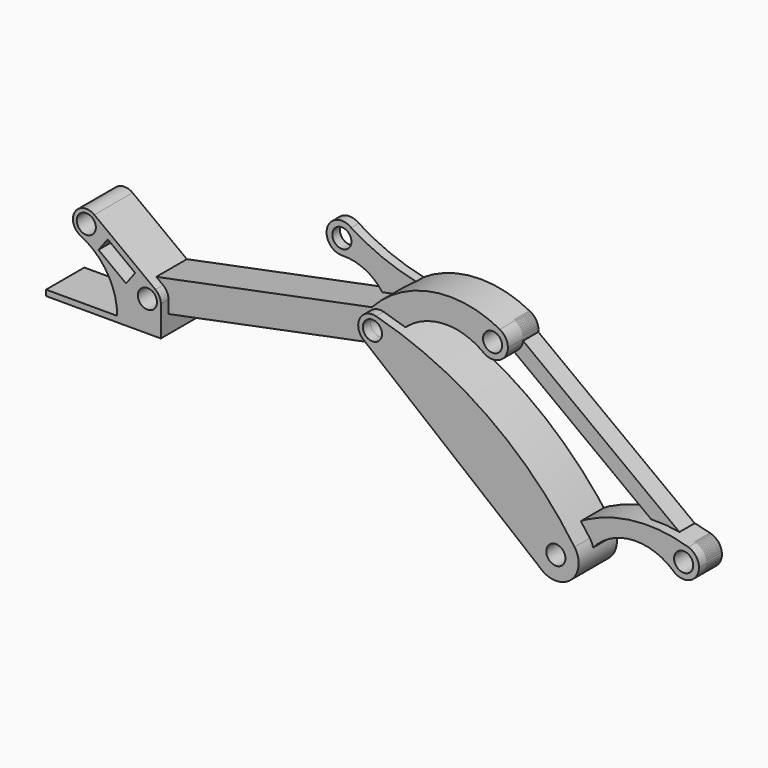
from build123d import *

# Parameters (mm, degrees)
F0_R      = 5
F4_DEPTH  = 25
F1_R      = 5
F5_DEPTH  = 20
F2_R      = 5
F6_DEPTH  = 10
F3_R      = 5
F7_DEPTH  = 15
F8_R      = 5
F9_DEPTH  = 5
F10_R     = 5
F11_DEPTH = 25


with BuildPart() as f4:
    # F0 (on Front) → F4 (new body)
    with BuildSketch(Plane.XZ):
        with BuildLine():
            ThreePointArc((12.7699903188, 6.3005770724), (27.8784727318, 7.8839687241), (29.1268600919, 23.0238134704))
            ThreePointArc((29.1268600919, 23.0238134704), (-16.3308618215, 68.473750537), (-74.6553024585, 95.4989403661))
            ThreePointArc((-74.6553024585, 95.4989403661), (-83.0966974862, 91.8431011822), (-81.5248735554, 82.779344804))
            Line((-81.5248735554, 82.779344804), (-80.9391446442, 82.3042836658))
            Line((-80.9391446442, 82.3042836658), (11.0379283983, 7.7053827625))
            Line((11.0379283983, 7.7053827625), (12.7699903188, 6.3005770724))
        make_face()
        with Locations((19.3689915792, 16.2070272359)):
            Circle(F0_R, mode=Mode.SUBTRACT)
        with Locations((-76.5540295824, 88.3095515414)):
            Circle(F0_R, mode=Mode.SUBTRACT)
        with BuildLine():
            ThreePointArc((11.0379283983, 7.7053827625), (11.8709867905, 6.9623262313), (12.7699903188, 6.3005770724))
            Line((12.7699903188, 6.3005770724), (11.0379283983, 7.7053827625))
        make_face()
        with BuildLine():
            Line((-80.9391446442, 82.3042836658), (-81.5248735554, 82.779344804))
            ThreePointArc((-81.5248735554, 82.779344804), (-81.2380356815, 82.5343837321), (-80.9391446442, 82.3042836658))
        make_face()
    extrude(amount=F4_DEPTH)


with BuildPart() as f5:
    # F1 (on Front) → F5 (new body)
    with BuildSketch(Plane.XZ):
        with BuildLine():
            ThreePointArc((-192.6220917004, 56.8102665311), (-188.0098035587, 59.5845822333), (-186.1991767139, 64.6532763399))
            ThreePointArc((-186.1991767139, 64.6532763399), (-189.1304826073, 70.842649495), (-195.7762617273, 72.4962861486))
            ThreePointArc((-195.7762617273, 72.4962861486), (-202.0421865226, 63.0761913264), (-192.6220917004, 56.8102665311))
        make_face()
        with Locations((-194.1991767139, 64.6532763399)):
            Circle(F1_R, mode=Mode.SUBTRACT)
        with BuildLine():
            ThreePointArc((-195.7762617273, 72.4962861486), (-189.1304826073, 70.842649495), (-186.1991767139, 64.6532763399))
            ThreePointArc((-186.1991767139, 64.6532763399), (-188.0098035587, 59.5845822333), (-192.6220917004, 56.8102665311))
            Line((-192.6220917004, 56.8102665311), (-74.976944569, 80.4665417327))
            ThreePointArc((-74.976944569, 80.4665417327), (-83.3984734066, 84.1678624249), (-82.7701585395, 93.3453971297))
            ThreePointArc((-82.7701585395, 93.3453971297), (-81.8164965769, 94.4905291082), (-80.8321852652, 95.6094257203))
            Line((-80.8321852652, 95.6094257203), (-195.7762617273, 72.4962861486))
        make_face()
        with BuildLine():
            ThreePointArc((-13.9450014887, 107.1848702884), (-49.3852791074, 112.9347338495), (-80.8321852652, 95.6094257203))
            Line((-80.8321852652, 95.6094257203), (-78.1311145958, 96.1525613502))
            ThreePointArc((-78.1311145958, 96.1525613502), (-71.4853354758, 94.4989246966), (-68.5540295824, 88.3095515414))
            ThreePointArc((-68.5540295824, 88.3095515414), (-68.8281533807, 86.2332960377), (-69.6317388116, 84.2993282953))
            ThreePointArc((-69.6317388116, 84.2993282953), (-48.2326022775, 99.6436062673), (-22.5656240685, 93.7634582673))
            ThreePointArc((-22.5656240685, 93.7634582673), (-24.4625778449, 104.4611135874), (-13.9450014887, 107.1848702884))
        make_face()
        with BuildLine():
            Line((-78.1311145958, 96.1525613502), (-80.8321852652, 95.6094257203))
            ThreePointArc((-80.8321852652, 95.6094257203), (-81.8164965769, 94.4905291082), (-82.7701585395, 93.3453971297))
            ThreePointArc((-82.7701585395, 93.3453971297), (-80.6957186989, 95.1539953656), (-78.1311145958, 96.1525613502))
        make_face()
        with BuildLine():
            ThreePointArc((-82.7701585395, 93.3453971297), (-83.3984734066, 84.1678624249), (-74.976944569, 80.4665417327))
            ThreePointArc((-74.976944569, 80.4665417327), (-71.8922262415, 81.8081986353), (-69.6317388116, 84.2993282953))
            ThreePointArc((-69.6317388116, 84.2993282953), (-68.8281533807, 86.2332960377), (-68.5540295824, 88.3095515414))
            ThreePointArc((-68.5540295824, 88.3095515414), (-71.4853354758, 94.4989246966), (-78.1311145958, 96.1525613502))
            ThreePointArc((-78.1311145958, 96.1525613502), (-80.6957186989, 95.1539953656), (-82.7701585395, 93.3453971297))
        make_face()
        with Locations((-76.5540295824, 88.3095515414)):
            Circle(F1_R, mode=Mode.SUBTRACT)
        with BuildLine():
            ThreePointArc((-9.7314560167, 100.1376891422), (-10.8651747734, 104.2430736416), (-13.9450014887, 107.1848702884))
            ThreePointArc((-13.9450014887, 107.1848702884), (-24.4625778449, 104.4611135874), (-22.5656240685, 93.7634582673))
            ThreePointArc((-22.5656240685, 93.7634582673), (-14.1728990349, 92.9727277182), (-9.7314560167, 100.1376891422))
        make_face()
        with Locations((-17.7314560167, 100.1376891422)):
            Circle(F1_R, mode=Mode.SUBTRACT)
    extrude(amount=F5_DEPTH)


with BuildPart() as f6:
    # F2 (on Front) → F6 (new body)
    with BuildSketch(Plane.XZ):
        with BuildLine():
            ThreePointArc((-14.5967552846, 92.7774139218), (-11.3365879392, 95.3308541885), (-9.7899203309, 99.1722819992))
            ThreePointArc((-9.7899203309, 99.1722819992), (-9.7460854715, 99.6541012423), (-9.7314560167, 100.1376891422))
            ThreePointArc((-9.7314560167, 100.1376891422), (-24.4051958174, 104.5491738211), (-14.5967552846, 92.7774139218))
        make_face()
        with Locations((-17.7314560167, 100.1376891422)):
            Circle(F2_R, mode=Mode.SUBTRACT)
        with BuildLine():
            ThreePointArc((70.2500294592, 29.0005719797), (77.7079772451, 20.0497942916), (86.191565145, 28.0351648367))
            ThreePointArc((86.191565145, 28.0351648367), (82.6030498238, 34.7089046375), (75.0568644129, 35.3954400571))
            ThreePointArc((75.0568644129, 35.3954400571), (71.7966970675, 32.8419997904), (70.2500294592, 29.0005719797))
        make_face()
        with Locations((78.191565145, 28.0351648367)):
            Circle(F2_R, mode=Mode.SUBTRACT)
        with BuildLine():
            ThreePointArc((70.2500294592, 29.0005719797), (71.7966970675, 32.8419997904), (75.0568644129, 35.3954400571))
            Line((75.0568644129, 35.3954400571), (-9.7899203309, 99.1722819992))
            ThreePointArc((-9.7899203309, 99.1722819992), (-11.3365879392, 95.3308541885), (-14.5967552846, 92.7774139218))
            Line((-14.5967552846, 92.7774139218), (70.2500294592, 29.0005719797))
        make_face()
    extrude(amount=F6_DEPTH)


with BuildPart() as f7:
    # F3 (on Front) → F7 (new body)
    with BuildSketch(Plane.XZ):
        with BuildLine():
            ThreePointArc((72.8789090776, 22.0538869206), (81.4701892056, 20.737862303), (86.191565145, 28.0351648367))
            ThreePointArc((86.191565145, 28.0351648367), (84.63531441, 32.7762718181), (80.5720412928, 35.6727909934))
            ThreePointArc((80.5720412928, 35.6727909934), (71.2260747239, 31.9698748887), (72.8789090776, 22.0538869206))
        make_face()
        with Locations((78.191565145, 28.0351648367)):
            Circle(F3_R, mode=Mode.SUBTRACT)
        with BuildLine():
            ThreePointArc((72.8789090776, 22.0538869206), (71.2260747239, 31.9698748887), (80.5720412928, 35.6727909934))
            ThreePointArc((80.5720412928, 35.6727909934), (45.6912858895, 37.4829808146), (14.2213342902, 22.330884226))
            ThreePointArc((14.2213342902, 22.330884226), (22.7467675996, 23.4589669183), (27.3689915792, 16.2070272359))
            ThreePointArc((27.3689915792, 16.2070272359), (27.1694271068, 14.4313004607), (26.5806901842, 12.7441666797))
            ThreePointArc((26.5806901842, 12.7441666797), (47.4099129478, 28.9360675152), (72.8789090776, 22.0538869206))
        make_face()
        with BuildLine():
            ThreePointArc((27.3689915792, 16.2070272359), (22.7467675996, 23.4589669183), (14.2213342902, 22.330884226))
            ThreePointArc((14.2213342902, 22.330884226), (14.4657931367, 9.8857421582), (26.5806901842, 12.7441666797))
            ThreePointArc((26.5806901842, 12.7441666797), (27.1694271068, 14.4313004607), (27.3689915792, 16.2070272359))
        make_face()
        with Locations((19.3689915792, 16.2070272359)):
            Circle(F3_R, mode=Mode.SUBTRACT)
    extrude(amount=F7_DEPTH)


with BuildPart() as f9:
    # F8 (on Front) → F9 (new body)
    with BuildSketch(Plane.XZ):
        with BuildLine():
            ThreePointArc((-103.6494633346, 118.6837791526), (-101.3509312524, 115.8770495983), (-100.5283699696, 112.3437263099))
            ThreePointArc((-100.5283699696, 112.3437263099), (-102.6975645601, 106.8663447935), (-108.0287970387, 104.359339866))
            ThreePointArc((-108.0287970387, 104.359339866), (-93.9195559776, 100.4054446337), (-84.5070065292, 89.1756679793))
            ThreePointArc((-84.5070065292, 89.1756679793), (-76.1203335911, 96.2977871281), (-68.5540295824, 88.3095515414))
            ThreePointArc((-68.5540295824, 88.3095515414), (-68.9659156988, 85.7756755204), (-70.159161505, 83.5027165877))
            ThreePointArc((-70.159161505, 83.5027165877), (-47.5135953993, 94.2755538632), (-22.4434506231, 93.6726209424))
            ThreePointArc((-22.4434506231, 93.6726209424), (-25.6869916993, 99.295399405), (-23.6927825629, 105.4727229574))
            ThreePointArc((-23.6927825629, 105.4727229574), (-64.9948622402, 104.0666433234), (-103.6494633346, 118.6837791526))
        make_face()
        with BuildLine():
            ThreePointArc((-108.0287970387, 104.359339866), (-102.6975645601, 106.8663447935), (-100.5283699696, 112.3437263099))
            ThreePointArc((-100.5283699696, 112.3437263099), (-101.3509312524, 115.8770495983), (-103.6494633346, 118.6837791526))
            ThreePointArc((-103.6494633346, 118.6837791526), (-116.1788209909, 114.6826575127), (-108.0287970387, 104.359339866))
        make_face()
        with Locations((-108.5283699696, 112.3437263099)):
            Circle(F8_R, mode=Mode.SUBTRACT)
        with BuildLine():
            ThreePointArc((-68.5540295824, 88.3095515414), (-76.1203335911, 96.2977871281), (-84.5070065292, 89.1756679793))
            ThreePointArc((-84.5070065292, 89.1756679793), (-79.4955462295, 80.8699628556), (-70.159161505, 83.5027165877))
            ThreePointArc((-70.159161505, 83.5027165877), (-68.9659156988, 85.7756755204), (-68.5540295824, 88.3095515414))
        make_face()
        with Locations((-76.5540295824, 88.3095515414)):
            Circle(F8_R, mode=Mode.SUBTRACT)
        with BuildLine():
            ThreePointArc((-9.7314560167, 100.1376891422), (-14.8758135644, 107.6106608527), (-23.6927825629, 105.4727229574))
            ThreePointArc((-23.6927825629, 105.4727229574), (-25.6869916993, 99.295399405), (-22.4434506231, 93.6726209424))
            ThreePointArc((-22.4434506231, 93.6726209424), (-14.1048844161, 93.0069122963), (-9.7314560167, 100.1376891422))
        make_face()
        with Locations((-17.7314560167, 100.1376891422)):
            Circle(F8_R, mode=Mode.SUBTRACT)
    extrude(amount=F9_DEPTH)


with BuildPart() as f11:
    # F10 (on Front) → F11 (new body)
    with BuildSketch(Plane.XZ):
        with BuildLine():
            ThreePointArc((-229.2370185997, 82.3934095953), (-222.4616786409, 82.7526170547), (-219.1735171011, 88.6874511084))
            ThreePointArc((-219.1735171011, 88.6874511084), (-219.910855363, 91.8146012414), (-221.9675365166, 94.2829606761))
            ThreePointArc((-221.9675365166, 94.2829606761), (-232.145675073, 92.3389342535), (-229.2370185997, 82.3934095953))
        make_face()
        with Locations((-226.1735171011, 88.6874511084)):
            Circle(F10_R, mode=Mode.SUBTRACT)
        with BuildLine():
            ThreePointArc((-221.9675365166, 94.2829606761), (-219.910855363, 91.8146012414), (-219.1735171011, 88.6874511084))
            ThreePointArc((-219.1735171011, 88.6874511084), (-222.4616786409, 82.7526170547), (-229.2370185997, 82.3934095953))
            ThreePointArc((-229.2370185997, 82.3934095953), (-215.2134146591, 69.781915729), (-210.0111383379, 51.6532763399))
            Line((-210.0111383379, 51.6532763399), (-187.1991767139, 51.6532763399))
            Line((-187.1991767139, 51.6532763399), (-187.1991767139, 64.6532763399))
            ThreePointArc((-187.1991767139, 64.6532763399), (-200.461838452, 61.5261262069), (-189.9931961294, 70.2487859076))
            Line((-189.9931961294, 70.2487859076), (-221.9675365166, 94.2829606761))
        make_face()
        Polygon((-200.5887028435, 74.4601084399), (-205.3955377972, 68.0652403625), (-219.7839909715, 78.8806190083), (-214.9771560178, 85.2754870858), align=None, mode=Mode.SUBTRACT)
        with BuildLine():
            ThreePointArc((-187.1991767139, 64.6532763399), (-187.9365149758, 67.7804264729), (-189.9931961294, 70.2487859076))
            ThreePointArc((-189.9931961294, 70.2487859076), (-200.461838452, 61.5261262069), (-187.1991767139, 64.6532763399))
        make_face()
        with Locations((-194.1991767139, 64.6532763399)):
            Circle(F10_R, mode=Mode.SUBTRACT)
        Polygon((-187.1991767139, 51.6532763399), (-210.0111383379, 51.6532763399), (-247.1991767139, 51.6532763399), (-247.1991767139, 48.6532763399), (-187.1991767139, 48.6532763399), align=None)
    extrude(amount=F11_DEPTH)


solid = Compound([f4.part, f5.part, f6.part, f7.part, f9.part, f11.part])
